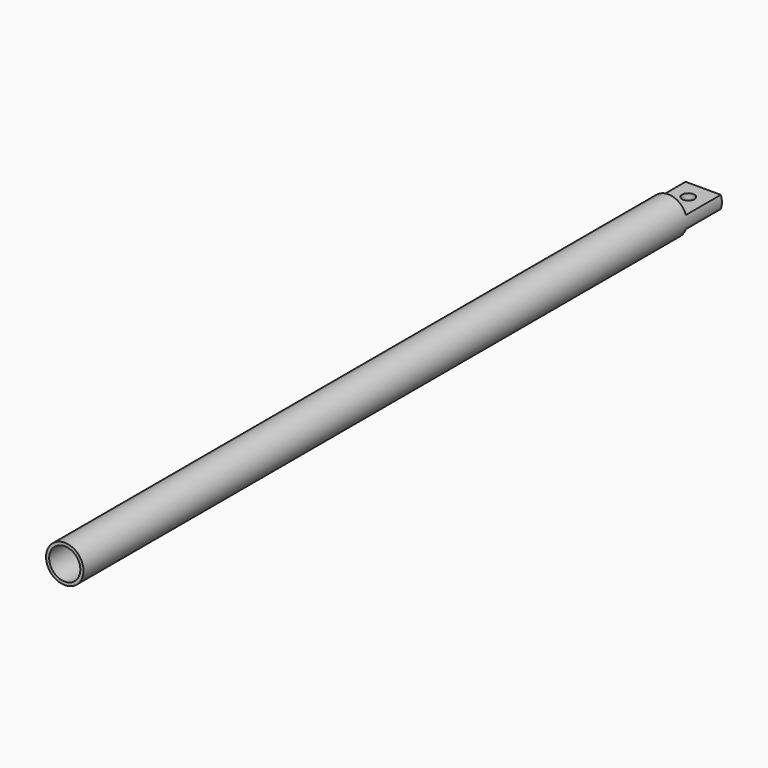
from build123d import *

# Parameters (mm, degrees)
F0_R     = 3
F1_DEPTH = 64
F2_R     = 2.5
F3_DEPTH = 110
F5_DEPTH = 3.4
F6_R     = 1
F7_DEPTH = 2.8


with BuildPart() as f1:
    # F0 (on Front) → F1 (new body, symmetric)
    with BuildSketch(Plane.XZ):
        Circle(F0_R)
    extrude(amount=F1_DEPTH, both=True)

    # F2 (on face) → F3 (cut)
    with BuildSketch(Plane.XZ.offset(64)):
        Circle(F2_R)
    extrude(amount=-F3_DEPTH, mode=Mode.SUBTRACT)

    # F4 (on Right) → F5 (cut, symmetric)
    with BuildSketch(Plane.YZ):
        Polygon((57, 1), (64, 1), (64.78107, 1), (64.78107, 4.400135), (57, 4.400135), align=None)
        Polygon((65.131716, -1), (64, -1), (57, -1), (57, -4.581856), (65.131716, -4.581856), align=None)
    extrude(amount=F5_DEPTH, both=True, mode=Mode.SUBTRACT)

    # F6 (on face) → F7 (cut)
    with BuildSketch(Plane(origin=(0, 0, -1), x_dir=(1, 0, 0), z_dir=(0, 0, -1))):
        with Locations((0, -61)):
            Circle(F6_R)
    extrude(amount=-F7_DEPTH, mode=Mode.SUBTRACT)


solid = f1.part
